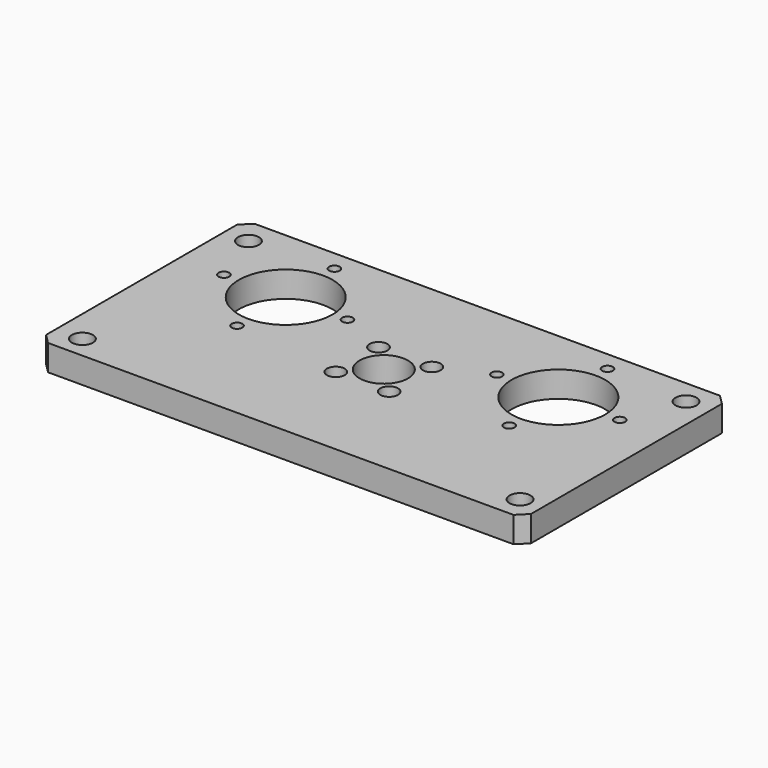
from build123d import *

# Parameters (mm, degrees)
F0_W     = 150
F0_H     = 79.84
F0_R     = 3.25
F0_R_2   = 1
F0_R_3   = 2.75
F0_R_4   = 7.5
F0_R_5   = 14.5
F1_DEPTH = 8
F2_SIZE  = 3
F4_D     = 3.3


with BuildPart() as f1:
    # F0 (on Top) → F1 (new body)
    with BuildSketch(Plane.XY):
        with Locations((0, 0.08)):
            Rectangle(F0_W, F0_H)
        with Locations((-66.8569050639, -32.9713009074)):
            Circle(F0_R, mode=Mode.SUBTRACT)
        with Locations((-41.9708455764, -4.2951276581)):
            Circle(F0_R_2, mode=Mode.SUBTRACT)
        with Locations((-8.25, -8.25)):
            Circle(F0_R_3, mode=Mode.SUBTRACT)
        with Locations((68.1422611349, -32.4968268505)):
            Circle(F0_R, mode=Mode.SUBTRACT)
        with Locations((8.25, -8.25)):
            Circle(F0_R_3, mode=Mode.SUBTRACT)
        Circle(F0_R_4, mode=Mode.SUBTRACT)
        with Locations((42, -4)):
            Circle(F0_R_2, mode=Mode.SUBTRACT)
        with Locations((-61.1039310143, 14.5708481086)):
            Circle(F0_R_2, mode=Mode.SUBTRACT)
        with Locations((-42.104400412, 14.7044029442)):
            Circle(F0_R_5, mode=Mode.SUBTRACT)
        with Locations((-8.25, 8.25)):
            Circle(F0_R_3, mode=Mode.SUBTRACT)
        with Locations((-23.1048698098, 14.8379577797)):
            Circle(F0_R_2, mode=Mode.SUBTRACT)
        with Locations((-67.4991661988, 32.0255259431)):
            Circle(F0_R, mode=Mode.SUBTRACT)
        with Locations((-42.2379552476, 33.7039335464)):
            Circle(F0_R_2, mode=Mode.SUBTRACT)
        with Locations((8.25, 8.25)):
            Circle(F0_R_3, mode=Mode.SUBTRACT)
        with Locations((23, 15)):
            Circle(F0_R_2, mode=Mode.SUBTRACT)
        with Locations((42, 15)):
            Circle(F0_R_5, mode=Mode.SUBTRACT)
        with Locations((61, 15)):
            Circle(F0_R_2, mode=Mode.SUBTRACT)
        with Locations((42, 34)):
            Circle(F0_R_2, mode=Mode.SUBTRACT)
        with Locations((67.5, 32.5)):
            Circle(F0_R, mode=Mode.SUBTRACT)
    extrude(amount=F1_DEPTH)

    # F2
    f2_edges = [f1.edges().sort_by_distance(p)[0] for p in [
        (75, -39.84, 4),
        (75, 40, 4),
        (-75, -39.84, 4),
        (-75, 40, 4),
    ]]
    chamfer(f2_edges, length=F2_SIZE)

    # F4 (through all)
    with Locations(Plane.XY.offset(8)):
        with Locations((42, 34), (61, 15), (42, -4), (23, 15), (-23.1048698098, 14.8379577797), (-42.2379552476, 33.7039335464), (-41.9708455764, -4.2951276581), (-61.1039310143, 14.5708481086)):
            Hole(F4_D / 2)


solid = f1.part
